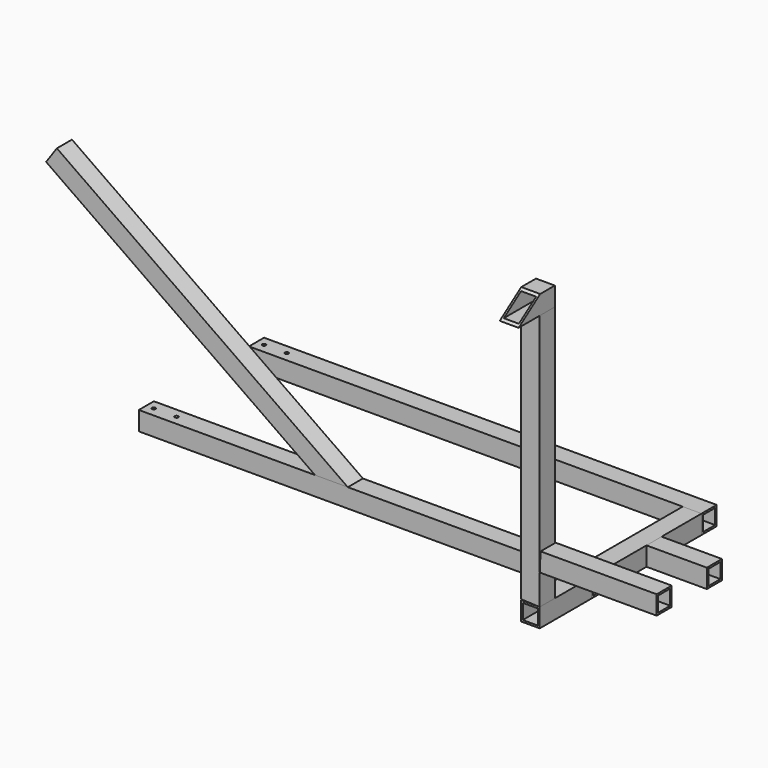
from build123d import *

# Parameters (mm, degrees)
F0_W      = 31.75
F0_H      = 31.75
F0_W_2    = 25.4
F0_H_2    = 25.4
F1_DEPTH  = 762
F2_R      = 3
F3_DEPTH  = 31.751
F5_W      = 31.75
F5_H      = 31.75
F5_W_2    = 25.4
F5_H_2    = 25.4
F6_DEPTH  = 200.0885
F7_W      = 31.75
F7_H      = 31.75
F7_W_2    = 25.4
F7_H_2    = 25.4
F8_DEPTH  = 101.6
F9_W      = 31.75
F9_H      = 31.75
F9_W_2    = 25.4
F9_H_2    = 25.4
F10_DEPTH = 108.74375
F11_W     = 31.75
F11_H     = 31.75
F11_W_2   = 25.4
F11_H_2   = 25.4
F12_DEPTH = 431.8
F14_DEPTH = 60.706
F15_W     = 31.75
F15_H     = 31.75
F15_W_2   = 25.4
F15_H_2   = 25.4
F16_DEPTH = 76.2
F18_DEPTH = 133.351
F20_W     = 31.75
F20_H     = 31.75
F20_W_2   = 25.4
F20_H_2   = 25.4
F21_DEPTH = 196.85
F23_DEPTH = 41.402
F25_W     = 31.75
F25_H     = 31.75
F25_W_2   = 25.4
F25_H_2   = 25.4


with BuildPart() as f1:
    # F0 (on Right) → F1 (new body)
    with BuildSketch(Plane.YZ):
        with Locations((-115.91925, 15.875)):
            Rectangle(F0_W, F0_H)
        with Locations((-115.91925, 15.875)):
            Rectangle(F0_W_2, F0_H_2, mode=Mode.SUBTRACT)
    extrude(amount=F1_DEPTH)

    # F2 (on Top) → F3 (cut, through all)
    with BuildSketch(Plane.XY):
        with Locations((12.7, -115.91925)):
            Circle(F2_R)
        with Locations((50.8, -115.91925)):
            Circle(F2_R)
    extrude(amount=F3_DEPTH, mode=Mode.SUBTRACT)


with BuildPart() as f4_1:
    # F4: instance of F1
    add(f1.part.mirror(Plane.XZ))


with BuildPart() as f6:
    # F5 (on face) → F6 (new body, through all)
    with BuildSketch(Plane(origin=(0, -100.04425, 0), x_dir=(-1, 0, 0), z_dir=(0, 1, 0))):
        with Locations((-746.125, 15.875)):
            Rectangle(F5_W, F5_H)
        with Locations((-746.125, 15.875)):
            Rectangle(F5_W_2, F5_H_2, mode=Mode.SUBTRACT)
    extrude(amount=F6_DEPTH)


with BuildPart() as f8:
    # F7 (on face) → F8 (new body)
    with BuildSketch(Plane.YZ.offset(762)):
        with Locations((0, 15.875)):
            Rectangle(F7_W, F7_H)
        with Locations((0, 15.875)):
            Rectangle(F7_W_2, F7_H_2, mode=Mode.SUBTRACT)
    extrude(amount=F8_DEPTH)


with BuildPart() as f10:
    # F9 (on face) → F10 (new body)
    with BuildSketch(Plane.XZ.offset(131.79425)):
        with Locations((746.125, 15.875)):
            Rectangle(F9_W, F9_H)
        with Locations((746.125, 15.875)):
            Rectangle(F9_W_2, F9_H_2, mode=Mode.SUBTRACT)
    extrude(amount=F10_DEPTH)


with BuildPart() as f12:
    # F11 (on face) → F12 (new body)
    with BuildSketch(Plane.XY.offset(31.75)):
        with Locations((746.125, -224.663)):
            Rectangle(F11_W, F11_H)
        with Locations((746.125, -224.663)):
            Rectangle(F11_W_2, F11_H_2, mode=Mode.SUBTRACT)
    extrude(amount=F12_DEPTH)

    # F13 (on face) → F14 (cut)
    with BuildSketch(Plane.XZ.offset(240.538)):
        Polygon((730.25, 31.75), (762, 31.75), (730.25, 33.1362349373), align=None)
    extrude(amount=-F14_DEPTH, mode=Mode.SUBTRACT)


with BuildPart() as f16:
    # F15 (on face) → F16 (new body)
    with BuildSketch(Plane(origin=(0, -208.788, 0), x_dir=(-1, 0, 0), z_dir=(0, 1, 0))):
        with Locations((-746.125, 479.425)):
            Rectangle(F15_W, F15_H)
        with Locations((-746.125, 479.425)):
            Rectangle(F15_W_2, F15_H_2, mode=Mode.SUBTRACT)
    extrude(amount=-F16_DEPTH)

    # F17 (on face) → F18 (cut, through all)
    with BuildSketch(Plane(origin=(730.25, 0, 0), x_dir=(0, -1, 0), z_dir=(-1, 0, 0))):
        Polygon((239.6443007859, 495.3), (284.988, 463.55), (284.988, 495.3), align=None)
    extrude(amount=-F18_DEPTH, mode=Mode.SUBTRACT)


with BuildPart() as f21:
    # F20 (on face) → F21 (new body)
    with BuildSketch(Plane.YZ.offset(762)):
        with Locations((-224.663, 98.7415569425)):
            Rectangle(F20_W, F20_H)
        with Locations((-224.663, 98.7415569425)):
            Rectangle(F20_W_2, F20_H_2, mode=Mode.SUBTRACT)
    extrude(amount=F21_DEPTH)

    # F22 (on face) → F23 (cut)
    with BuildSketch(Plane.XZ.offset(240.538)):
        Polygon((762, 114.6165569425), (762, 82.8665569425), (763.3862349373, 114.6165569425), align=None)
    extrude(amount=-F23_DEPTH, mode=Mode.SUBTRACT)


with BuildPart() as f26:
    # F25 (on line) → F26 (new body, up to the next surface of F1)
    with BuildSketch(Plane(origin=(-268.6025501382, 0, 188.0775303891), x_dir=(0, 1, 0), z_dir=(0.8191520443, 0, -0.5735764364))):
        with Locations((-115.91925, 211.9838086831)):
            Rectangle(F25_W, F25_H)
        with Locations((-115.91925, 211.9838086831)):
            Rectangle(F25_W_2, F25_H_2, mode=Mode.SUBTRACT)
    extrude(until=Until.NEXT, target=f1.part)


solid = Compound([f1.part, f4_1.part, f6.part, f8.part, f10.part, f12.part, f16.part, f21.part, f26.part])
